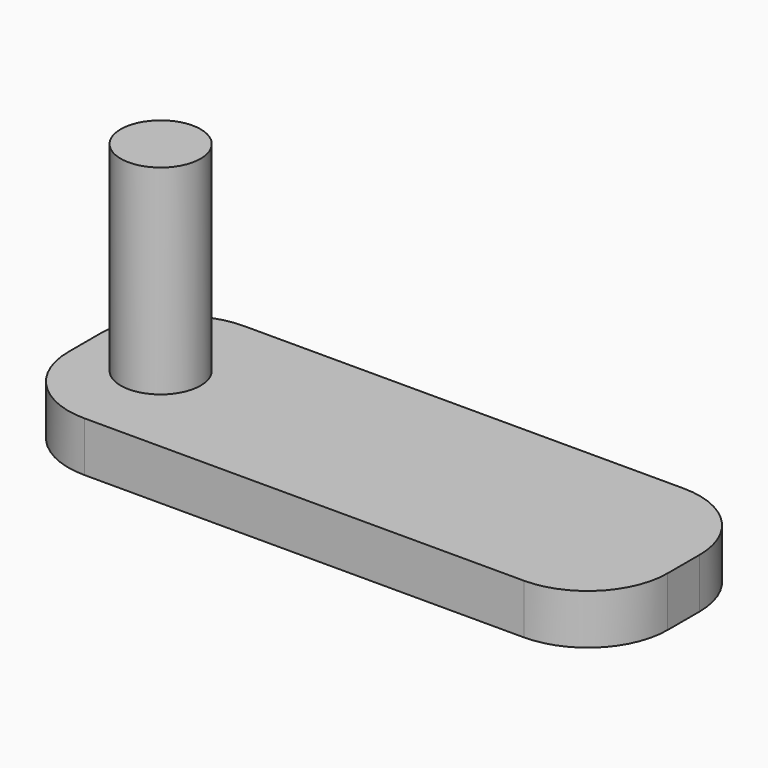
from build123d import *

# Parameters (mm, degrees)
F0_W     = 38.1
F0_H     = 3.175
F1_DEPTH = 12.7
F2_R     = 2.54
F3_DEPTH = 12.7
F4_R     = 1.1938
F5_DEPTH = 2.54
F6_R     = 1.1938
F7_DEPTH = 2.54
F8_R     = 5.08


with BuildPart() as f1:
    # F0 (on Front) → F1 (new body)
    with BuildSketch(Plane.XZ):
        with Locations((7.715251, 3.188805)):
            Rectangle(F0_W, F0_H)
    extrude(amount=F1_DEPTH)

    # F2 (on face) → F3 (join)
    with BuildSketch(Plane.XY.offset(4.776305)):
        with Locations((-6.483349, -6.35)):
            Circle(F2_R)
    extrude(amount=F3_DEPTH)

    # F4 (on face) → F5 (join)
    with BuildSketch(Plane(origin=(0, 0, 1.601305), x_dir=(1, 0, 0), z_dir=(0, 0, -1))):
        with Locations((7.410451, 5.887567)):
            Circle(F4_R)
    extrude(amount=F5_DEPTH)

    # F6 (on face) → F7 (join)
    with BuildSketch(Plane(origin=(0, 0, 1.601305), x_dir=(1, 0, 0), z_dir=(0, 0, -1))):
        with Locations((21.532176, 6.025657)):
            Circle(F6_R)
    extrude(amount=F7_DEPTH)

    # F8
    f8_edges = [f1.edges().sort_by_distance(p)[0] for p in [
        (-11.334749, -12.7, 3.188805),
        (-11.334749, 0, 3.188805),
        (26.765251, -12.7, 3.188805),
        (26.765251, 0, 3.188805),
    ]]
    fillet(f8_edges, radius=F8_R)


solid = f1.part
